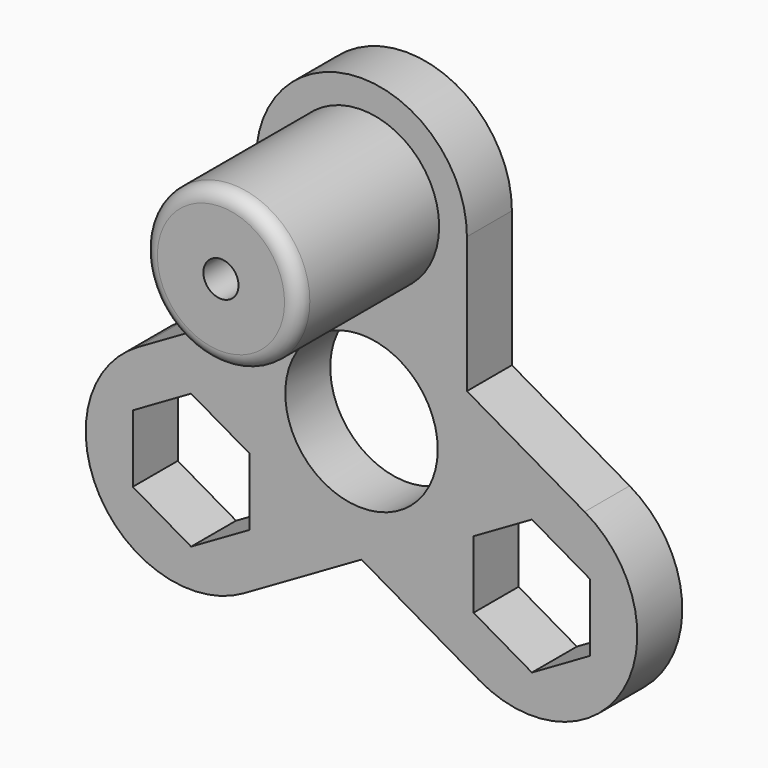
from build123d import *

# Parameters (mm, degrees)
F0_R     = 10.85
F1_DEPTH = 8
F2_R     = 11.047434
F3_DEPTH = 25
F4_R     = 2
F5_R     = 2.5
F6_DEPTH = 25


with BuildPart() as f1:
    # F0 (on Front) → F1 (new body)
    with BuildSketch(Plane.XZ):
        with BuildLine():
            Line((-40.454113, 50.402456), (-40.454113, 69.742202))
            ThreePointArc((-40.454113, 69.742202), (-55.454113, 84.742202), (-70.454113, 69.742202))
            Line((-70.454113, 69.742202), (-70.454113, 50.402456))
            Line((-70.454113, 50.402456), (-87.202824, 40.732583))
            ThreePointArc((-87.202824, 40.732583), (-92.693205, 20.242202), (-72.202824, 14.751821))
            Line((-72.202824, 14.751821), (-55.454113, 24.421694))
            Line((-55.454113, 24.421694), (-38.705401, 14.751821))
            ThreePointArc((-38.705401, 14.751821), (-18.21502, 20.242202), (-23.705401, 40.732583))
            Line((-23.705401, 40.732583), (-40.454113, 50.402456))
        make_face()
        Polygon((-71.402824, 32.534209), (-71.402824, 22.950195), (-79.702824, 18.158187), (-88.002824, 22.950195), (-88.002824, 32.534209), (-79.702824, 37.326216), align=None, mode=Mode.SUBTRACT)
        Polygon((-39.505401, 32.534209), (-31.205401, 37.326216), (-22.905401, 32.534209), (-22.905401, 22.950195), (-31.205401, 18.158187), (-39.505401, 22.950195), align=None, mode=Mode.SUBTRACT)
        with Locations((-55.454113, 41.742202)):
            Circle(F0_R, mode=Mode.SUBTRACT)
        Polygon((-55.454113, 79.326216), (-47.154113, 74.534209), (-47.154113, 64.950195), (-55.454113, 60.158187), (-63.754113, 64.950195), (-63.754113, 74.534209), align=None, mode=Mode.SUBTRACT)
    extrude(amount=F1_DEPTH)

    # F2 (on face) → F3 (join)
    with BuildSketch(Plane.XZ.offset(8)):
        with Locations((-55.454113, 69.742202)):
            Circle(F2_R)
    extrude(amount=F3_DEPTH)

    # F4
    f4_edges = [f1.edges().sort_by_distance(p)[0] for p in [
        (-66.501547, -33, 69.742202),
    ]]
    fillet(f4_edges, radius=F4_R)

    # F5 (on face) → F6 (cut)
    with BuildSketch(Plane.XZ.offset(33)):
        with Locations((-55.454113, 69.742202)):
            Circle(F5_R)
    extrude(amount=-F6_DEPTH, mode=Mode.SUBTRACT)


solid = f1.part
